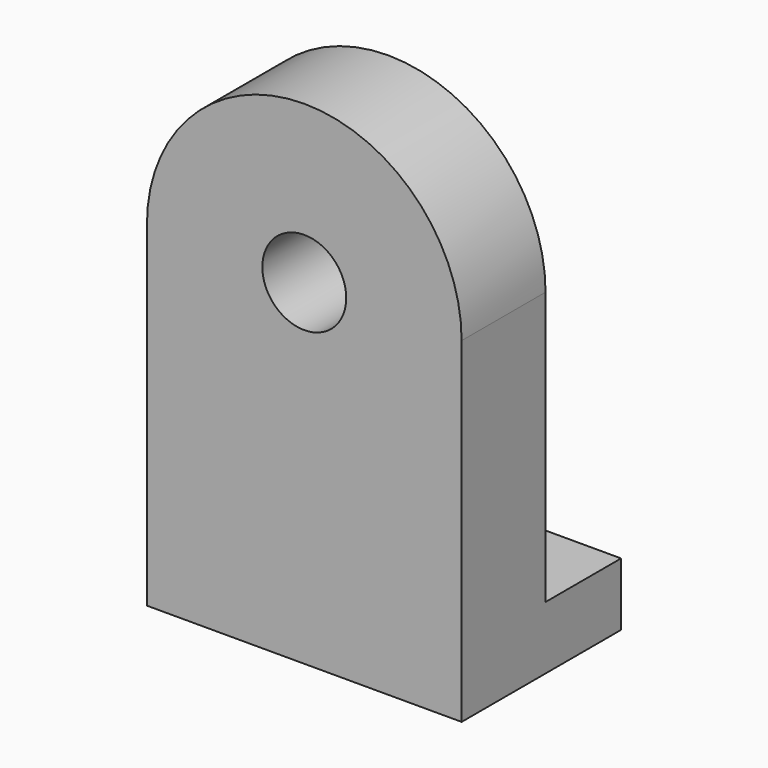
from build123d import *

# Parameters (mm, degrees)
F0_W     = 15
F0_H     = 3
F1_DEPTH = 4.5
F2_R     = 2
F3_DEPTH = 5


with BuildPart() as f1:
    # F0 (on Front) → F1 (new body)
    with BuildSketch(Plane.XZ):
        with Locations((7.5, 1.5)):
            Rectangle(F0_W, F0_H)
    extrude(amount=F1_DEPTH)

    # F2 (on face) → F3 (join)
    with BuildSketch(Plane.XZ.offset(4.5)):
        with BuildLine():
            Line((15, 0), (15, 16))
            ThreePointArc((15, 16), (7.5, 23.5), (0, 16))
            Line((0, 16), (0, 0))
            Line((0, 0), (15, 0))
        make_face()
        with Locations((7.5, 16)):
            Circle(F2_R, mode=Mode.SUBTRACT)
    extrude(amount=F3_DEPTH)


solid = f1.part
